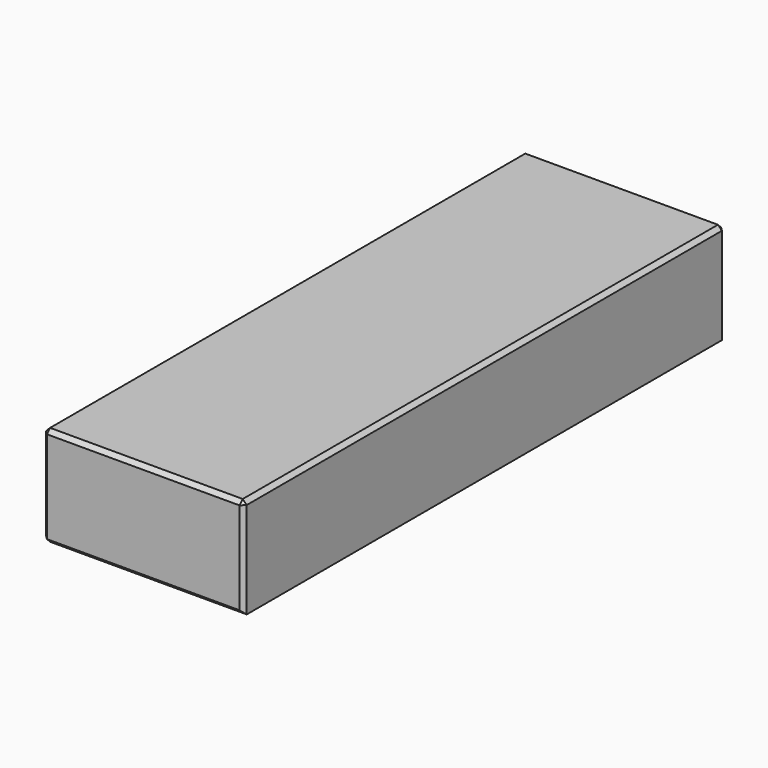
from build123d import *

# Parameters (mm, degrees)
F0_W     = 50
F0_H     = 25
F1_DEPTH = 75
F2_SIZE  = 1


with BuildPart() as f1:
    # F0 (on Front) → F1 (new body, symmetric)
    with BuildSketch(Plane.XZ):
        Rectangle(F0_W, F0_H)
    extrude(amount=F1_DEPTH, both=True)

    # F2
    f2_edges = [f1.edges().sort_by_distance(p)[0] for p in [
        (-25, 0, 12.5),
        (0, 75, 12.5),
        (25, 75, 0),
        (0, 75, -12.5),
        (-25, 75, 0),
        (-25, 0, -12.5),
        (25, 0, 12.5),
        (-25, -75, 0),
        (25, -75, 0),
        (0, -75, -12.5),
        (0, -75, 12.5),
    ]]
    chamfer(f2_edges, length=F2_SIZE)


solid = f1.part
